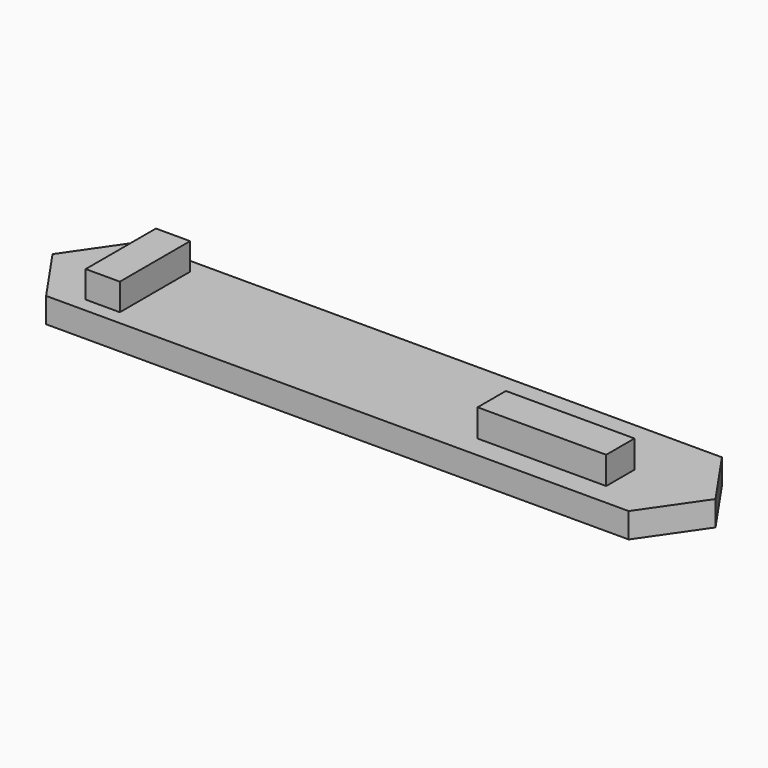
from build123d import *

# Parameters (mm, degrees)
F0_W     = 4.318
F0_H     = 11.0998
F0_W_2   = 16.256
F0_H_2   = 4.4704
F1_DEPTH = 3.1623
F2_DEPTH = 3.4798
F3_DEPTH = 3.4036


with BuildPart() as f1:
    # F0 (on Top) → F1 (new body)
    with BuildSketch(Plane.XY):
        Polygon((36.83, 7.366), (-36.83, 7.366), (-41.91, 0), (-36.83, -7.366), (36.83, -7.366), (41.91, 0), align=None)
        with Locations((-31.115, 0)):
            Rectangle(F0_W, F0_H, mode=Mode.SUBTRACT)
        with Locations((23.622, -2.3368)):
            Rectangle(F0_W_2, F0_H_2, mode=Mode.SUBTRACT)
        with Locations((-31.115, 0)):
            Rectangle(F0_W, F0_H)
        with Locations((23.622, -2.3368)):
            Rectangle(F0_W_2, F0_H_2)
    extrude(amount=-F1_DEPTH)

    # F0 (on Top) → F2 (join)
    with BuildSketch(Plane.XY):
        with Locations((23.622, -2.3368)):
            Rectangle(F0_W_2, F0_H_2)
    extrude(amount=F2_DEPTH)

    # F0 (on Top) → F3 (join)
    with BuildSketch(Plane.XY):
        with Locations((-31.115, 0)):
            Rectangle(F0_W, F0_H)
    extrude(amount=F3_DEPTH)


solid = f1.part
